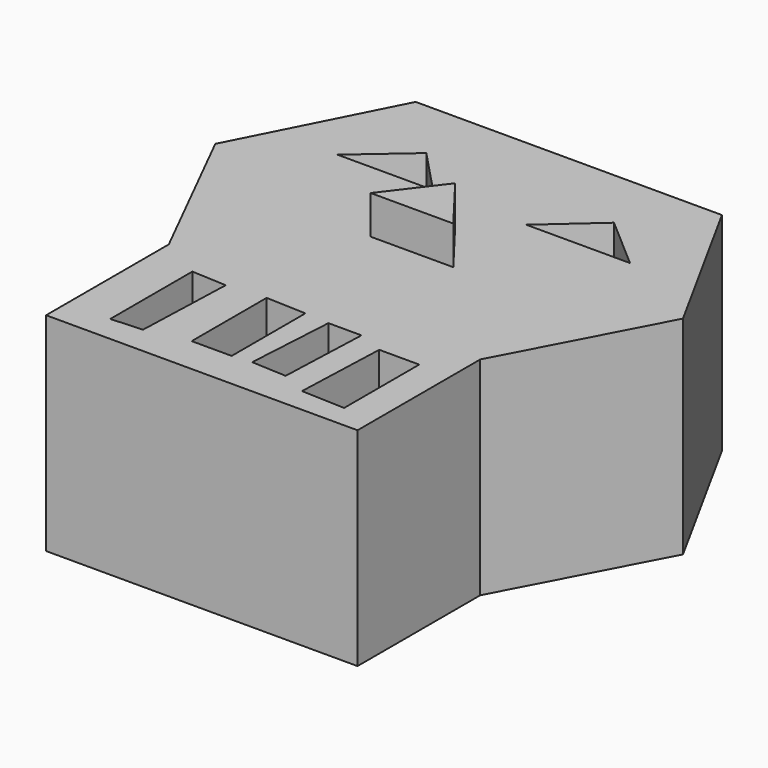
from build123d import *

# Parameters (mm, degrees)
PAD_DEPTH       = 27
POCKET_DEPTH    = 18
PAD001_DEPTH    = 5
POCKET001_DEPTH = 8


with BuildPart() as part:
    # Sketch → Pad (new body)
    with BuildSketch(Plane.XY):
        Polygon((-20.307119, 40.133461), (19.519873, 40.133461), (30.657932, 19.882448), (20.194906, 0), (20.194906, -19.944538), (-20.307119, -19.944538), (-20.307119, 0), (-30.432625, 20.219969), align=None)
    extrude(amount=PAD_DEPTH)

    # Sketch001 (on Face10 of Pad) → Pocket (cut)
    with BuildSketch(Plane.XY.offset(27)):
        Polygon((-14.705877, -3.167421), (-10.180991, -3.393665), (-10.63348, -16.289593), (-14.705877, -16.515837), align=None)
        Polygon((-5.203616, -2.968245), (0, -3.167421), (0, -15.15837), (-5.203616, -15.15837), align=None)
        Polygon((3.167424, -3.393665), (7.46607, -3.393665), (7.013581, -15.15837), (2.488694, -14.932126), align=None)
        Polygon((10.859732, -4.751131), (16.063354, -4.751131), (16.063354, -16.968325), (10.407243, -16.742081), align=None)
    extrude(amount=-POCKET_DEPTH, mode=Mode.SUBTRACT)

    # Sketch002 (on Face5 of Pocket) → Pad001 (join)
    with BuildSketch(Plane.XY.offset(27)):
        Polygon((0, 21.168507), (-5.353663, 14.129646), (5.389863, 14.129646), align=None)
    extrude(amount=PAD001_DEPTH)

    # Sketch003 (on Face5 of Pad001) → Pocket001 (cut)
    with BuildSketch(Plane.XY.offset(27)):
        Polygon((-12.432311, 32.022194), (-19.256838, 26.107605), (-6.821035, 26.107605), align=None)
        Polygon((12.014428, 31.966341), (5.341558, 26.051752), (18.838953, 26.051752), align=None)
    extrude(amount=-POCKET001_DEPTH, mode=Mode.SUBTRACT)


solid = part.part
